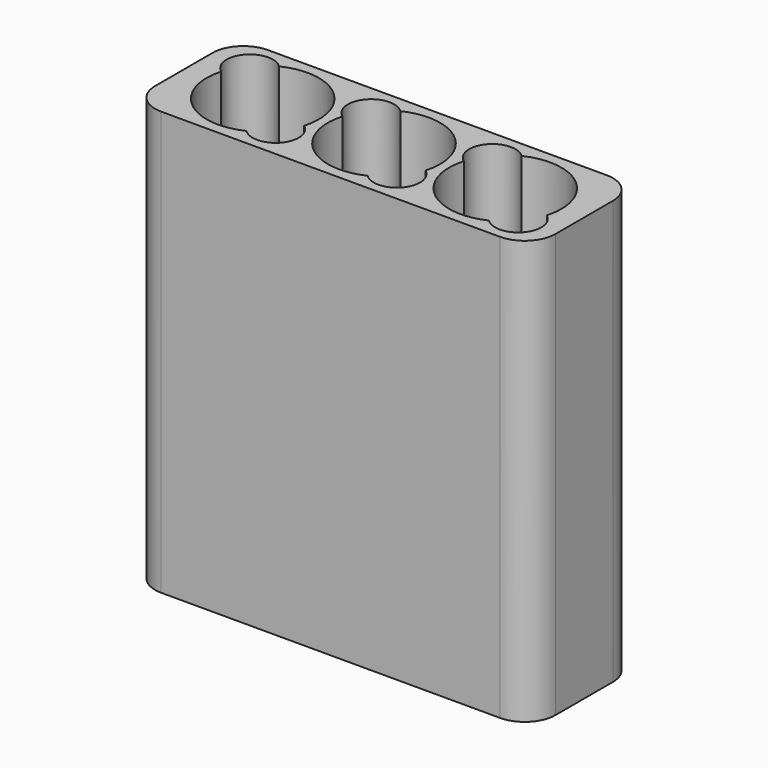
from build123d import *

# Parameters (mm, degrees)
F0_W     = 66.04
F0_H     = 22
F1_DEPTH = 69.85
F2_R     = 5.08


with BuildPart() as f1:
    # F0 (on Top) → F1 (new body)
    with BuildSketch(Plane.XY):
        Rectangle(F0_W, F0_H)
        with BuildLine():
            ThreePointArc((-23.97354, 8.353052), (-14.017672, 7.055087), (-11.109783, -2.554711))
            ThreePointArc((-11.109783, -2.554711), (-10.464057, -8.085959), (-16.02646, -8.353052))
            ThreePointArc((-16.02646, -8.353052), (-25.982328, -7.055087), (-28.890217, 2.554711))
            ThreePointArc((-28.890217, 2.554711), (-29.535943, 8.085959), (-23.97354, 8.353052))
        make_face(mode=Mode.SUBTRACT)
        with BuildLine():
            ThreePointArc((3.97354, -8.353052), (-5.982328, -7.055087), (-8.890217, 2.554711))
            ThreePointArc((-8.890217, 2.554711), (-9.535943, 8.085959), (-3.97354, 8.353052))
            ThreePointArc((-3.97354, 8.353052), (5.982328, 7.055087), (8.890217, -2.554711))
            ThreePointArc((8.890217, -2.554711), (9.535943, -8.085959), (3.97354, -8.353052))
        make_face(mode=Mode.SUBTRACT)
        with BuildLine():
            ThreePointArc((16.02646, 8.353052), (25.982328, 7.055087), (28.890217, -2.554711))
            ThreePointArc((28.890217, -2.554711), (29.535943, -8.085959), (23.97354, -8.353052))
            ThreePointArc((23.97354, -8.353052), (14.017672, -7.055087), (11.109783, 2.554711))
            ThreePointArc((11.109783, 2.554711), (10.464057, 8.085959), (16.02646, 8.353052))
        make_face(mode=Mode.SUBTRACT)
    extrude(amount=F1_DEPTH)

    # F2
    f2_edges = [f1.edges().sort_by_distance(p)[0] for p in [
        (-33.02, 11, 34.925),
        (-33.02, -11, 34.925),
        (33.02, -11, 34.925),
        (33.02, 11, 34.925),
    ]]
    fillet(f2_edges, radius=F2_R)


solid = f1.part
